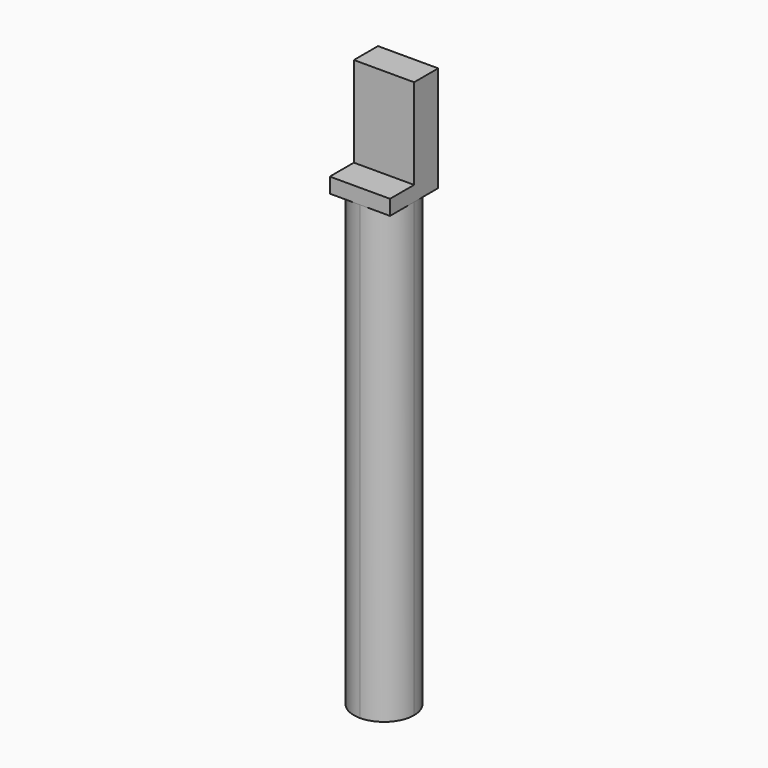
from build123d import *

# Parameters (mm, degrees)
F0_W     = 20
F0_H     = 20
F1_DEPTH = 5
F2_R     = 3.75
F3_DEPTH = 150
F4_W     = 20
F4_H     = 10
F5_DEPTH = 30
F6_R     = 5
F7_DEPTH = 5


with BuildPart() as f1:
    # F0 (on Top) → F1 (new body)
    with BuildSketch(Plane.XY):
        with Locations((-56.141918, 59.129702)):
            Rectangle(F0_W, F0_H)
        with Locations((-56.141918, 59.129702)):
            Rectangle(F0_W, F0_H)
    extrude(amount=F1_DEPTH)

    # F2 (on face) → F3 (join)
    with BuildSketch(Plane(origin=(0, 0, 0), x_dir=(1, 0, 0), z_dir=(0, 0, -1))):
        with BuildLine():
            ThreePointArc((-56.141918, -69.129702), (-49.07085, -66.20077), (-46.141918, -59.129702))
            ThreePointArc((-46.141918, -59.129702), (-49.07085, -52.058634), (-56.141918, -49.129702))
            ThreePointArc((-56.141918, -49.129702), (-63.212986, -52.058634), (-66.141918, -59.129702))
            ThreePointArc((-66.141918, -59.129702), (-63.212986, -66.20077), (-56.141918, -69.129702))
        make_face()
        with Locations((-56.141918, -59.129702)):
            Circle(F2_R, mode=Mode.SUBTRACT)
    extrude(amount=F3_DEPTH)

    # F4 (on face) → F5 (join)
    with BuildSketch(Plane.XY.offset(5)):
        with Locations((-56.141918, 64.129702)):
            Rectangle(F4_W, F4_H)
    extrude(amount=F5_DEPTH)

    # F6 (on face) → F7 (cut)
    with BuildSketch(Plane(origin=(0, 69.129702, 0), x_dir=(-1, 0, 0), z_dir=(0, 1, 0))):
        with Locations((56.141918, 23.75)):
            Circle(F6_R)
    extrude(amount=-F7_DEPTH, mode=Mode.SUBTRACT)


solid = f1.part
